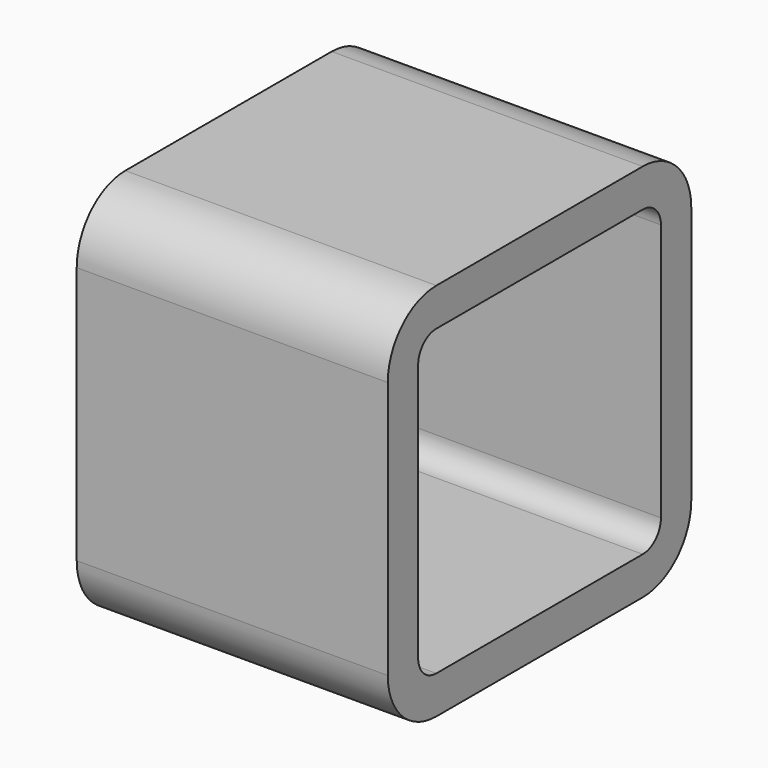
from build123d import *

# Parameters (mm, degrees)
F1_DEPTH = 41


with BuildPart() as f1:
    # F0 (on Right) → F1 (new body)
    with BuildSketch(Plane.YZ):
        with BuildLine():
            Line((20, -22.931077078), (20, 11.068922922))
            ThreePointArc((20, 11.068922922), (17.6568542495, 16.7257771715), (12, 19.068922922))
            Line((12, 19.068922922), (-22, 19.068922922))
            ThreePointArc((-22, 19.068922922), (-27.6568542495, 16.7257771715), (-30, 11.068922922))
            Line((-30, 11.068922922), (-30, -22.931077078))
            ThreePointArc((-30, -22.931077078), (-27.6568542495, -28.5879313275), (-22, -30.931077078))
            Line((-22, -30.931077078), (12, -30.931077078))
            ThreePointArc((12, -30.931077078), (17.6568542495, -28.5879313275), (20, -22.931077078))
        make_face()
        with BuildLine():
            Line((-25, -22.931077078), (-25, 11.068922922))
            ThreePointArc((-25, 11.068922922), (-24.1213203436, 13.1902432656), (-22, 14.068922922))
            Line((-22, 14.068922922), (12, 14.068922922))
            ThreePointArc((12, 14.068922922), (14.1213203436, 13.1902432656), (15, 11.068922922))
            Line((15, 11.068922922), (15, -22.931077078))
            ThreePointArc((15, -22.931077078), (14.1213203436, -25.0523974215), (12, -25.931077078))
            Line((12, -25.931077078), (-22, -25.931077078))
            ThreePointArc((-22, -25.931077078), (-24.1213203436, -25.0523974215), (-25, -22.931077078))
        make_face(mode=Mode.SUBTRACT)
    extrude(amount=F1_DEPTH)


solid = f1.part
